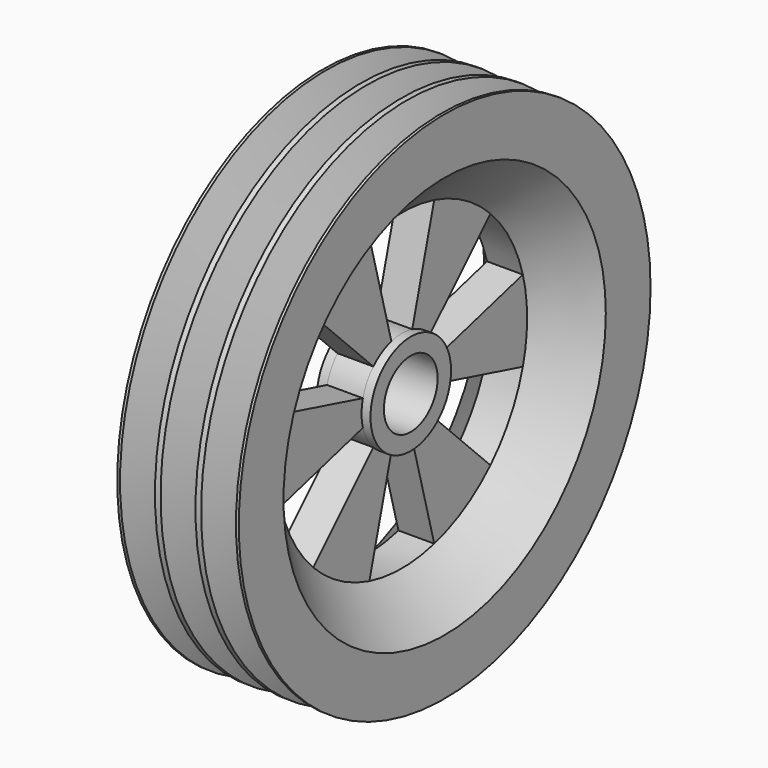
from build123d import *

# Parameters (mm, degrees)
POCKET_DEPTH       = 16
POLARPATTERN_COUNT = 6


with BuildPart() as part:
    # Sketch → Revolution (revolve)
    with BuildSketch(Plane.XY):
        Polygon((-12, 15), (12, 15), (12, 22.5), (8, 22.5), (8, 70), (27.155, 90), (27.155, 115), (25.905, 115), (19.352321, 97), (16.852321, 97), (10.300857, 115), (7.800857, 115), (1.249393, 97), (-1.250607, 97), (-7.802072, 115), (-10.302072, 115), (-16.853536, 97), (-19.353536, 97), (-25.905, 115), (-27.155, 115), (-27.155, 90), (-8, 70), (-8, 22.5), (-12, 22.5), align=None)
    revolve(axis=Axis((0, 0, 0), (1, 0, 0)))

    # Sketch001 (on Face7 of Revolution) → Pocket (cut)
    with BuildSketch(Plane.YZ.offset(8)):
        with BuildLine():
            ThreePointArc((5.823465, 21.733321), (0, 22.5), (-5.823465, 21.733321))
            Line((-18.11737, 67.614798), (-5.823465, 21.733321))
            ThreePointArc((18.11737, 67.614798), (0, 70), (-18.11737, 67.614798))
            Line((18.11737, 67.614798), (5.823465, 21.733321))
        make_face()
    pocket = extrude(amount=-POCKET_DEPTH, mode=Mode.SUBTRACT)

    # PolarPattern: Pocket ×6 about axis
    polarpattern_axis = Axis((8, 0, 0), (1, 0, 0))
    for i in range(1, POLARPATTERN_COUNT):
        add(pocket.rotate(polarpattern_axis, i * 360 / POLARPATTERN_COUNT), mode=Mode.SUBTRACT)


solid = part.part
